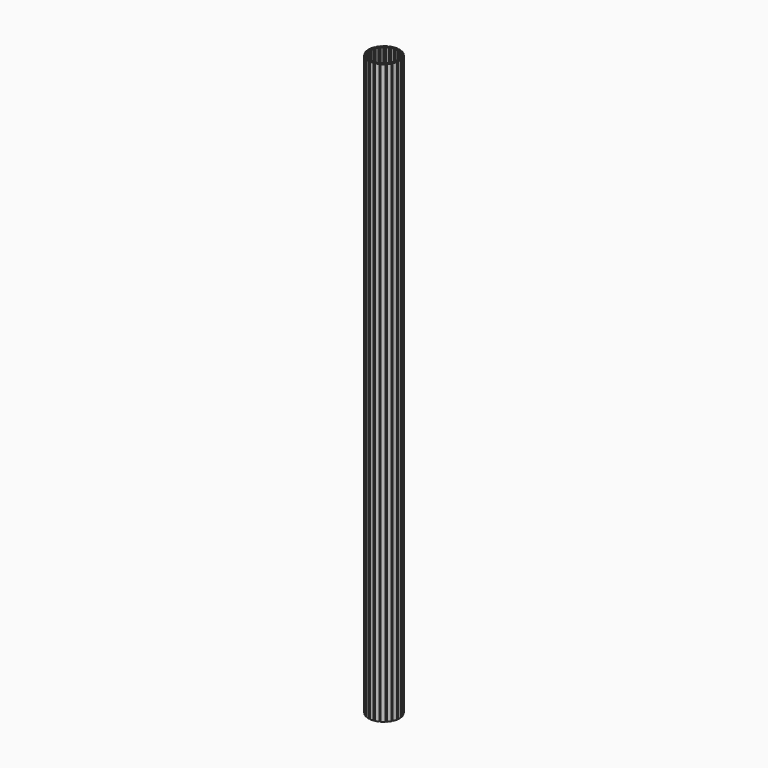
from build123d import *

# Parameters (mm, degrees)
F1_DEPTH = 3000
F2_R     = 1
F4_COUNT = 20


with BuildPart() as f1:
    # F0 (on Top) → F1 (new body)
    with BuildSketch(Plane.XY):
        with BuildLine():
            Line((-76.329349, 10.140538), (-79.30322, 10.535624))
            ThreePointArc((-79.30322, 10.535624), (-80, 0), (-79.30322, -10.535624))
            Line((-79.30322, -10.535624), (-76.329349, -10.140538))
            ThreePointArc((-76.329349, -10.140538), (-76.516647, -8.614097), (-76.673423, -7.08422))
            Line((-76.673423, -7.08422), (-72.690388, -6.716209))
            ThreePointArc((-72.690388, -6.716209), (-72.434006, -9.072746), (-72.101249, -11.419716))
            Line((-72.101249, -11.419716), (-69.138184, -10.950413))
            ThreePointArc((-69.138184, -10.950413), (-69.613564, -7.345179), (-69.901078, -3.720122))
            Line((-69.901078, -3.720122), (-76.891186, -4.092134))
            ThreePointArc((-76.891186, -4.092134), (-77, 0), (-76.891186, 4.092134))
            Line((-76.891186, 4.092134), (-69.901078, 3.720122))
            ThreePointArc((-69.901078, 3.720122), (-69.613564, 7.345179), (-69.138184, 10.950413))
            Line((-69.138184, 10.950413), (-72.101249, 11.419716))
            ThreePointArc((-72.101249, 11.419716), (-72.434006, 9.072746), (-72.690388, 6.716209))
            Line((-72.690388, 6.716209), (-76.673423, 7.08422))
            ThreePointArc((-76.673423, 7.08422), (-76.516647, 8.614097), (-76.329349, 10.140538))
        make_face()
    extrude(amount=F1_DEPTH)

    # F2
    f2_edges = [f1.edges().sort_by_distance(p)[0] for p in [
        (-79.30322, 10.535624, 1500),
        (-79.30322, -10.535624, 1500),
        (-76.329349, -10.140538, 1500),
        (-76.673423, -7.08422, 1500),
        (-72.690388, -6.716209, 1500),
        (-76.329349, 10.140538, 1500),
        (-72.690388, 6.716209, 1500),
        (-76.673423, 7.08422, 1500),
        (-69.901078, -3.720122, 1500),
        (-69.901078, 3.720122, 1500),
        (-76.891186, -4.092134, 1500),
        (-76.891186, 4.092134, 1500),
    ]]
    fillet(f2_edges, radius=F2_R)

    # F4: F1 ×20 about axis
    f4_axis = Axis((0, 0, 383.505133), (0, 0, 1))


with BuildPart() as f1_1:
    add(f1.part)
    for i in range(1, F4_COUNT):
        add(f1.part.rotate(f4_axis, i * 360 / F4_COUNT))


solid = f1_1.part
